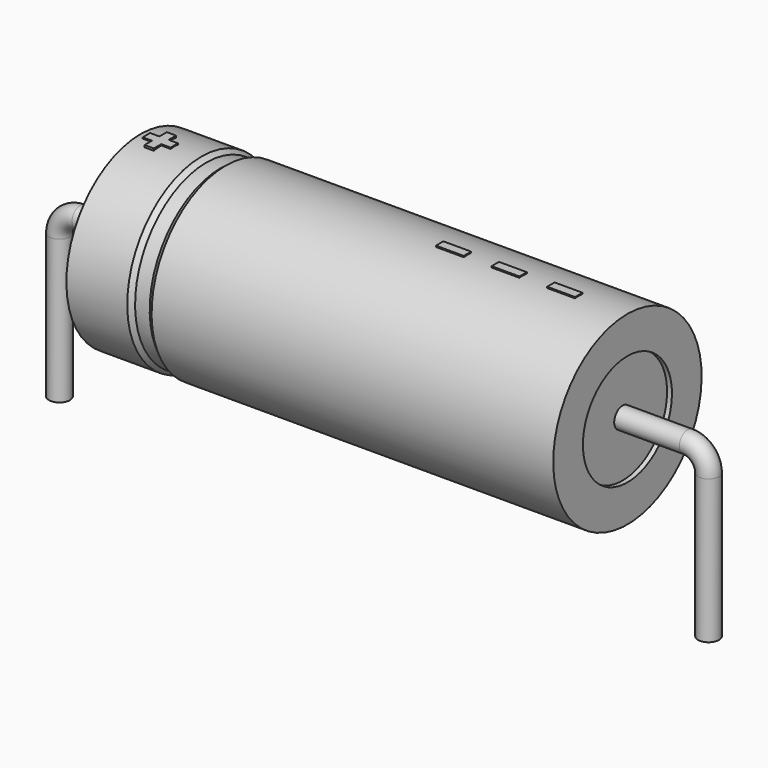
from build123d import *

# Parameters (mm, degrees)
SKETCH_R    = 0.45
SKETCH004_W = 1.2
SKETCH004_H = 0.4
PAD_DEPTH   = 4.04


with BuildPart() as sweep_body:
    # Sweep: sweep along a path in Sketch001
    with BuildLine(Plane.XZ) as sweep_path:
        Line((0, -3), (0, 3.2))
        ThreePointArc((0, 3.2), (0.2636, 3.836392), (0.899989, 4.1))
        Line((0.899989, 4.1), (27.1, 4.1))
        ThreePointArc((27.1, 4.1), (27.736396, 3.836396), (28, 3.2))
        Line((28, 3.2), (28, -3))
    # Sketch → Sweep (sweep)
    with BuildSketch(Plane.XY.offset(-2)):
        Circle(SKETCH_R)
    sweep(path=sweep_path.line)


with BuildPart() as revolution:
    # Sketch002 → Revolution (revolve)
    with BuildSketch(Plane.XZ):
        Polygon((3.5, 8.1), (3.5, 6.5), (24.5, 6.5), (24.5, 8.1), (7.175, 8.1), (6.965, 7.94), (6.335, 7.94), (6.125, 8.1), align=None)
    revolve(axis=Axis((6.97588, 0, 4.1), (1, 0, 0)))


with BuildPart() as revolution001:
    # Sketch003 → Revolution001 (revolve)
    with BuildSketch(Plane.XZ):
        Polygon((3.71, 7.94), (4.76, 7.94), (4.76, 4.5), (23.24, 4.5), (23.24, 7.94), (24.29, 7.94), (24.29, 4.1), (3.71, 4.1), align=None)
    revolve(axis=Axis((6.97588, 0, 4.1), (1, 0, 0)))


with BuildPart() as pad:
    # Sketch004 → Pad (new body)
    with BuildSketch(Plane.XY.offset(4.1)):
        with Locations((21.8, 0)):
            Rectangle(SKETCH004_W, SKETCH004_H)
        with Locations((19.4, 0)):
            Rectangle(SKETCH004_W, SKETCH004_H)
        with Locations((17, 0)):
            Rectangle(SKETCH004_W, SKETCH004_H)
        Polygon((4.152, 0.2), (3.752, 0.2), (3.752, -0.2), (4.152, -0.2), (4.152, -0.6), (4.552, -0.6), (4.552, -0.2), (4.952, -0.2), (4.952, 0.2), (4.552, 0.2), (4.552, 0.6), (4.152, 0.6), align=None)
    extrude(amount=PAD_DEPTH)


solid = Compound([sweep_body.part, revolution.part, revolution001.part, pad.part])
